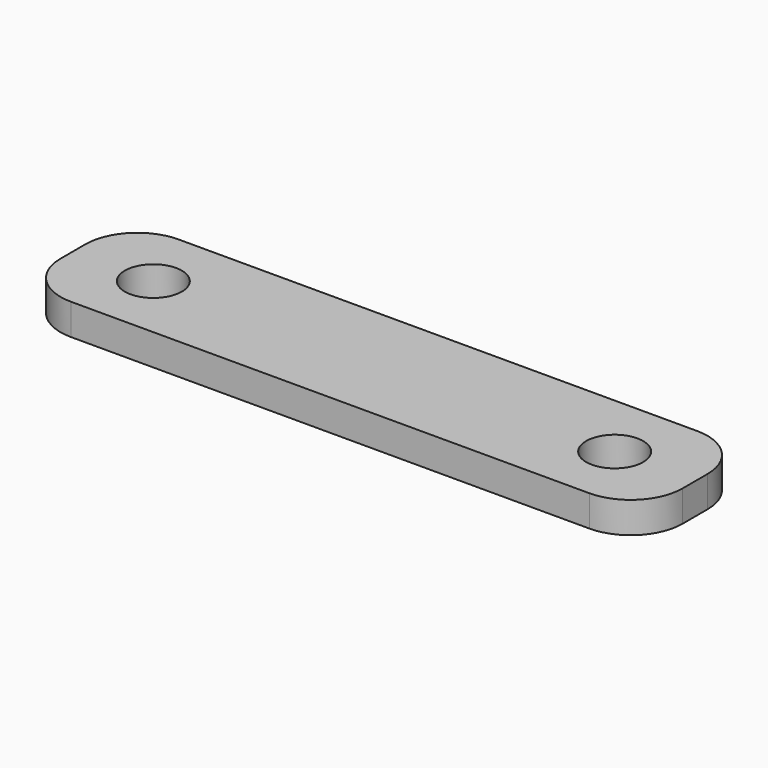
from build123d import *

# Parameters (mm, degrees)
F1_DEPTH = 3


with BuildPart() as f1:
    # F0 (on Top) → F1 (new body)
    with BuildSketch(Plane.XY):
        with BuildLine():
            Line((-25, -6.5), (25, -6.5))
            ThreePointArc((25, -6.5), (28.535534, -5.035534), (30, -1.5))
            Line((30, -1.5), (30, 0))
            Line((30, 0), (25, 0))
            ThreePointArc((25, 0), (22.25, -2.75), (19.5, 0))
            Line((19.5, 0), (-19.5, 0))
            ThreePointArc((-19.5, 0), (-22.25, -2.75), (-25, 0))
            Line((-25, 0), (-30, 0))
            Line((-30, 0), (-30, -1.5))
            ThreePointArc((-30, -1.5), (-28.535534, -5.035534), (-25, -6.5))
        make_face()
        with BuildLine():
            Line((25, 0), (30, 0))
            Line((30, 0), (30, 1.5))
            ThreePointArc((30, 1.5), (28.535534, 5.035534), (25, 6.5))
            Line((25, 6.5), (-25, 6.5))
            ThreePointArc((-25, 6.5), (-28.535534, 5.035534), (-30, 1.5))
            Line((-30, 1.5), (-30, 0))
            Line((-30, 0), (-25, 0))
            ThreePointArc((-25, 0), (-22.25, 2.75), (-19.5, 0))
            Line((-19.5, 0), (19.5, 0))
            ThreePointArc((19.5, 0), (22.25, 2.75), (25, 0))
        make_face()
    extrude(amount=F1_DEPTH)


solid = f1.part
